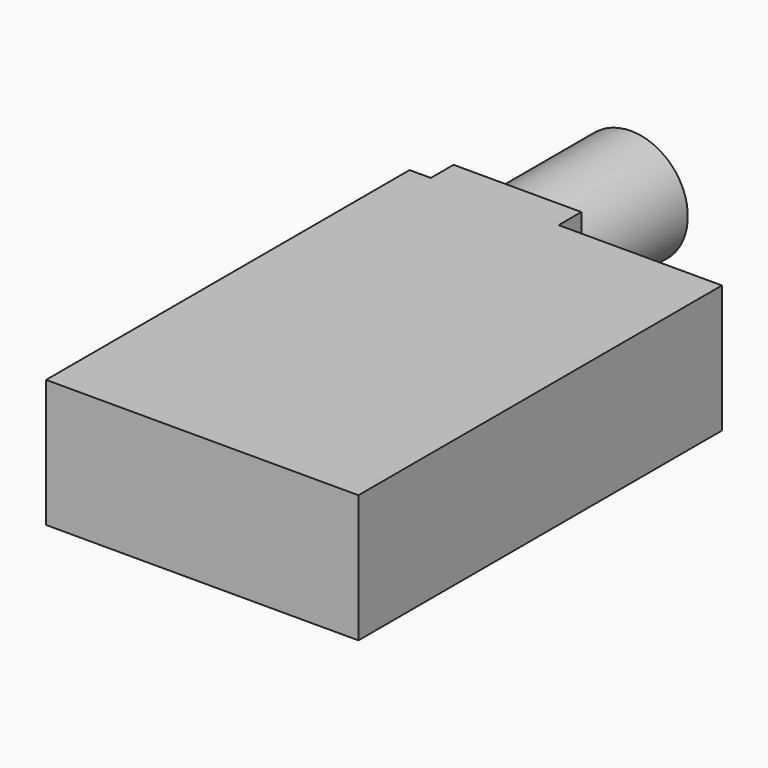
from build123d import *

# Parameters (mm, degrees)
F0_W     = 22
F0_H     = 32
F1_DEPTH = 9
F2_W     = 9
F2_H     = 9
F3_DEPTH = 2
F4_R     = 4
F5_DEPTH = 10


with BuildPart() as f1:
    # F0 (on Top) → F1 (new body)
    with BuildSketch(Plane.XY):
        with Locations((11, 16)):
            Rectangle(F0_W, F0_H)
    extrude(amount=F1_DEPTH)

    # F2 (on face) → F3 (join)
    with BuildSketch(Plane(origin=(0, 32, 0), x_dir=(-1, 0, 0), z_dir=(0, 1, 0))):
        with Locations((-6, 4.5)):
            Rectangle(F2_W, F2_H)
    extrude(amount=F3_DEPTH)

    # F4 (on face) → F5 (join)
    with BuildSketch(Plane(origin=(0, 34, 0), x_dir=(-1, 0, 0), z_dir=(0, 1, 0))):
        with Locations((-6, 4.5)):
            Circle(F4_R)
    extrude(amount=F5_DEPTH)


solid = f1.part
